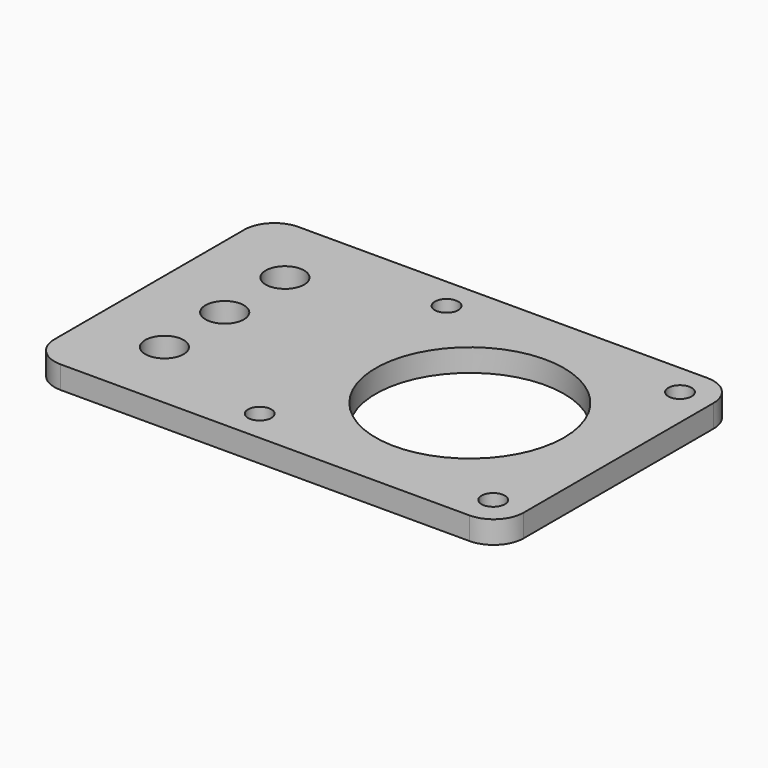
from build123d import *

# Parameters (mm, degrees)
F0_R     = 2.55
F0_R_2   = 1.55
F0_R_3   = 12.5
F1_DEPTH = 3


with BuildPart() as f1:
    # F0 (on Top) → F1 (new body)
    with BuildSketch(Plane.XY):
        with BuildLine():
            ThreePointArc((19.75, 15.75), (18.578427, 18.578427), (15.75, 19.75))
            Line((15.75, 19.75), (-38.55, 19.75))
            ThreePointArc((-38.55, 19.75), (-41.378427, 18.578427), (-42.55, 15.75))
            Line((-42.55, 15.75), (-42.55, -15.75))
            ThreePointArc((-42.55, -15.75), (-41.378427, -18.578427), (-38.55, -19.75))
            Line((-38.55, -19.75), (15.75, -19.75))
            ThreePointArc((15.75, -19.75), (18.578427, -18.578427), (19.75, -15.75))
            Line((19.75, -15.75), (19.75, 15.75))
        make_face()
        with Locations((-32.55, -10)):
            Circle(F0_R, mode=Mode.SUBTRACT)
        with Locations((-15.5, -15.5)):
            Circle(F0_R_2, mode=Mode.SUBTRACT)
        with Locations((15.5, -15.5)):
            Circle(F0_R_2, mode=Mode.SUBTRACT)
        with Locations((-32.55, 0)):
            Circle(F0_R, mode=Mode.SUBTRACT)
        with Locations((-32.55, 10)):
            Circle(F0_R, mode=Mode.SUBTRACT)
        with Locations((-15.5, 15.5)):
            Circle(F0_R_2, mode=Mode.SUBTRACT)
        Circle(F0_R_3, mode=Mode.SUBTRACT)
        with Locations((15.5, 15.5)):
            Circle(F0_R_2, mode=Mode.SUBTRACT)
    extrude(amount=F1_DEPTH)


solid = f1.part
